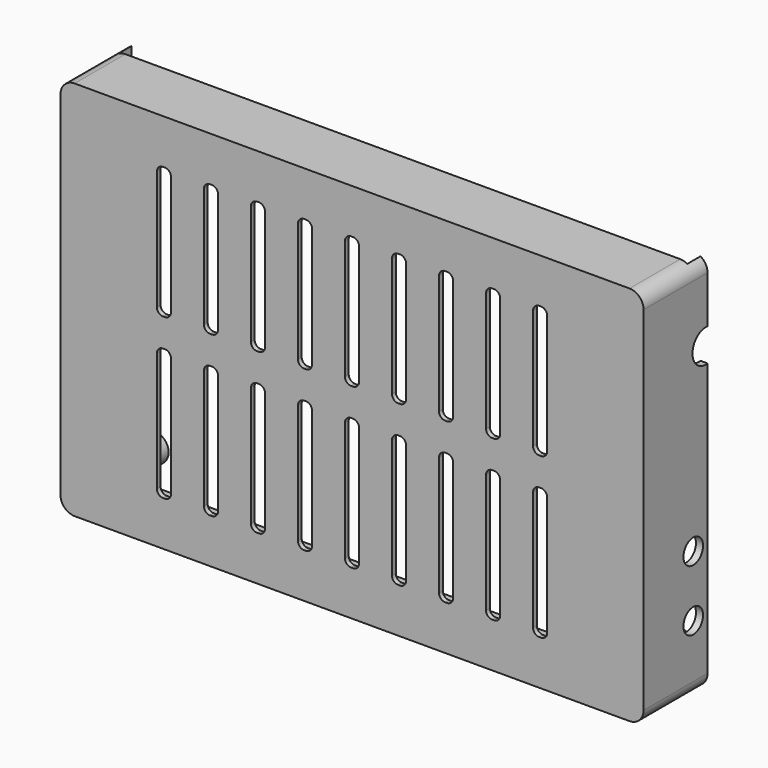
from build123d import *

# Parameters (mm, degrees)
CYLINDER002_R     = 1.5
CYLINDER002_DEPTH = 12
ARRAY001_X_COUNT  = 2
ARRAY001_X_PITCH  = 111
ARRAY001_Z_COUNT  = 2
ARRAY001_Z_PITCH  = 67
BOX003_W          = 10
BOX003_H          = 4
BOX003_DEPTH      = 10
CYLINDER_R        = 3.5
CYLINDER_DEPTH    = 20
BOX006_W          = 3
BOX006_H          = 10
BOX006_DEPTH      = 28
FILLET003_R       = 1.3
ARRAY004_X_COUNT  = 9
ARRAY004_X_PITCH  = 10
ARRAY004_Z_COUNT  = 2
ARRAY004_Z_PITCH  = 34
CYLINDER001_R     = 2.6
CYLINDER001_DEPTH = 20
ARRAY_Z_COUNT     = 2
ARRAY_Z_PITCH     = 13
BOX002_W          = 121
BOX002_H          = 3.5
BOX002_DEPTH      = 90
BOX001_W          = 121
BOX001_H          = 18
BOX001_DEPTH      = 77
FILLET001_R       = 3
BOX_W             = 124
BOX_H             = 17
BOX_DEPTH         = 81
FILLET_R          = 3
BOX004_W          = 9
BOX004_H          = 12
BOX004_DEPTH      = 9
FILLET002_R       = 3
ARRAY003_X_COUNT  = 2
ARRAY003_X_PITCH  = 115
ARRAY003_Z_COUNT  = 2
ARRAY003_Z_PITCH  = 71
CYLINDER003_R     = 3
CYLINDER003_DEPTH = 16
ARRAY002_X_COUNT  = 2
ARRAY002_X_PITCH  = 111
ARRAY002_Z_COUNT  = 2
ARRAY002_Z_PITCH  = 67


with BuildPart() as bolt_hole_array:
    # Cylinder002 → Cylinder002 (new body)
    with BuildSketch(Plane(origin=(6.4, 2, 7.1), x_dir=(1, 0, 0), z_dir=(0, 1, 0))):
        Circle(CYLINDER002_R)
    extrude(amount=CYLINDER002_DEPTH)

    # Array001 X: bolt hole array ×2


with BuildPart() as bolt_hole_array_1:
    add(bolt_hole_array.part)
    with Locations(*[(i * ARRAY001_X_PITCH, 0, 0) for i in range(1, ARRAY001_X_COUNT)]):
        add(bolt_hole_array.part)

    # Array001 Z: bolt hole array ×2


with BuildPart() as bolt_hole_array_2:
    add(bolt_hole_array_1.part)
    with Locations(*[(0, 0, i * ARRAY001_Z_PITCH) for i in range(1, ARRAY001_Z_COUNT)]):
        add(bolt_hole_array_1.part)


with BuildPart() as usb_cut:
    # Box003 → Box003 (new body)
    with BuildSketch(Plane(origin=(-5, 11, 22), x_dir=(1, 0, 0), z_dir=(0, 0, 1))):
        with Locations((5, 2)):
            Rectangle(BOX003_W, BOX003_H)
    extrude(amount=BOX003_DEPTH)


with BuildPart() as ant_hole:
    # Cylinder → Cylinder (new body)
    with BuildSketch(Plane(origin=(-9, 13.5, 66), x_dir=(0, 0, -1), z_dir=(1, 0, 0))):
        Circle(CYLINDER_R)
    extrude(amount=CYLINDER_DEPTH)


with BuildPart() as ant_hole002:
    # Body001 base: copy of ant hole
    add(ant_hole.part)


with BuildPart() as ant_hole002_1:
    # Clone001 placement: moved
    add(ant_hole002.part.moved(Location((0, 0.5, 0))))


with BuildPart() as ant_hole002_2:
    # Body001 placement: moved
    add(ant_hole002_1.part.moved(Location((121, -0.5, -1.5))))


with BuildPart() as ant_hole001:
    # Body base: copy of ant hole
    add(ant_hole.part)


with BuildPart() as ant_hole001_1:
    # Clone placement: moved
    add(ant_hole001.part.moved(Location((0, 0.5, 0))))


with BuildPart() as ant_hole001_2:
    # Body placement: moved
    add(ant_hole001_1.part.moved(Location((0, -0.5, -18))))


with BuildPart() as top_hole_array:
    # Box006 → Box006 (new body)
    with BuildSketch(Plane(origin=(20.5, 0, 0), x_dir=(1, 0, 0), z_dir=(0, 0, 1))):
        with Locations((1.5, 5)):
            Rectangle(BOX006_W, BOX006_H)
    extrude(amount=BOX006_DEPTH)

    # Fillet003
    fillet003_edges = [top_hole_array.edges().sort_by_distance(p)[0] for p in [
        (20.5, 5, 28),
        (20.5, 5, 0),
        (23.5, 5, 28),
        (23.5, 5, 0),
    ]]
    fillet(fillet003_edges, radius=FILLET003_R)


with BuildPart() as top_hole_array_1:
    # Fillet003 placement: moved
    add(top_hole_array.part.moved(Location((0, 0, 9.5))))

    # Array004 X: top hole array ×9


with BuildPart() as top_hole_array_2:
    add(top_hole_array_1.part)
    with Locations(*[(i * ARRAY004_X_PITCH, 0, 0) for i in range(1, ARRAY004_X_COUNT)]):
        add(top_hole_array_1.part)

    # Array004 Z: top hole array ×2


with BuildPart() as top_hole_array_3:
    add(top_hole_array_2.part)
    with Locations(*[(0, 0, i * ARRAY004_Z_PITCH) for i in range(1, ARRAY004_Z_COUNT)]):
        add(top_hole_array_2.part)


with BuildPart() as top_hole_array_4:
    # Array004 placement: moved
    add(top_hole_array_3.part.moved(Location((0, -3, 0))))


with BuildPart() as hole_fusion:
    # Cylinder001 → Cylinder001 (new body)
    with BuildSketch(Plane(origin=(112, 10.2, 14.4), x_dir=(0, 0, -1), z_dir=(1, 0, 0))):
        Circle(CYLINDER001_R)
    extrude(amount=CYLINDER001_DEPTH)

    # Array Z: hole fusion ×2


with BuildPart() as hole_fusion_1:
    add(hole_fusion.part)
    with Locations(*[(0, 0, i * ARRAY_Z_PITCH) for i in range(1, ARRAY_Z_COUNT)]):
        add(hole_fusion.part)

    # Fusion002: union bolt hole array, usb cut, ant hole002, ant hole001, ant hole, top hole array
    add(bolt_hole_array_2.part)
    add(usb_cut.part)
    add(ant_hole002_2.part)
    add(ant_hole001_2.part)
    add(ant_hole.part)
    add(top_hole_array_4.part)


with BuildPart() as hole_fusion_2:
    # Fusion002 placement: moved
    add(hole_fusion_1.part.moved(Location((0, 3, 0))))


with BuildPart() as cube002:
    # Box002 → Box002 (new body)
    with BuildSketch(Plane(origin=(1.5, 13.5, -4), x_dir=(1, 0, 0), z_dir=(0, 0, 1))):
        with Locations((60.5, 1.75)):
            Rectangle(BOX002_W, BOX002_H)
    extrude(amount=BOX002_DEPTH)


with BuildPart() as body_extraction_fusion:
    # Box001 → Box001 (new body)
    with BuildSketch(Plane(origin=(1.5, 1, 2), x_dir=(1, 0, 0), z_dir=(0, 0, 1))):
        with Locations((60.5, 9)):
            Rectangle(BOX001_W, BOX001_H)
    extrude(amount=BOX001_DEPTH)

    # Fillet001
    fillet001_edges = [body_extraction_fusion.edges().sort_by_distance(p)[0] for p in [
        (1.5, 10, 79),
        (1.5, 10, 2),
        (122.5, 10, 79),
        (122.5, 10, 2),
    ]]
    fillet(fillet001_edges, radius=FILLET001_R)

    # Fusion001: union Cube002
    add(cube002.part)


with BuildPart() as body_cut:
    # Box → Box (new body)
    with BuildSketch(Plane.XY):
        with Locations((62, 8.5)):
            Rectangle(BOX_W, BOX_H)
    extrude(amount=BOX_DEPTH)

    # Fillet
    fillet_edges = [body_cut.edges().sort_by_distance(p)[0] for p in [
        (0, 8.5, 81),
        (0, 8.5, 0),
        (124, 8.5, 81),
        (124, 8.5, 0),
    ]]
    fillet(fillet_edges, radius=FILLET_R)

    # Cut: cut body extraction fusion
    add(body_extraction_fusion.part, mode=Mode.SUBTRACT)


with BuildPart() as bolt_stand_array001:
    # Box004 → Box004 (new body)
    with BuildSketch(Plane.XY):
        with Locations((4.5, 6)):
            Rectangle(BOX004_W, BOX004_H)
    extrude(amount=BOX004_DEPTH)

    # Fillet002
    fillet002_edges = [bolt_stand_array001.edges().sort_by_distance(p)[0] for p in [
        (0, 6, 9),
        (0, 6, 0),
        (9, 6, 9),
        (9, 6, 0),
    ]]
    fillet(fillet002_edges, radius=FILLET002_R)

    # Array003 X: bolt stand array001 ×2


with BuildPart() as bolt_stand_array001_1:
    add(bolt_stand_array001.part)
    with Locations(*[(i * ARRAY003_X_PITCH, 0, 0) for i in range(1, ARRAY003_X_COUNT)]):
        add(bolt_stand_array001.part)

    # Array003 Z: bolt stand array001 ×2


with BuildPart() as bolt_stand_array001_2:
    add(bolt_stand_array001_1.part)
    with Locations(*[(0, 0, i * ARRAY003_Z_PITCH) for i in range(1, ARRAY003_Z_COUNT)]):
        add(bolt_stand_array001_1.part)


with BuildPart() as obj1:
    # Cylinder003 → Cylinder003 (new body)
    with BuildSketch(Plane(origin=(6.4, 1, 7.1), x_dir=(1, 0, 0), z_dir=(0, 1, 0))):
        Circle(CYLINDER003_R)
    extrude(amount=CYLINDER003_DEPTH)

    # Array002 X: obj1_2


with BuildPart() as obj1_1:
    add(obj1.part)
    with Locations(*[(i * ARRAY002_X_PITCH, 0, 0) for i in range(1, ARRAY002_X_COUNT)]):
        add(obj1.part)

    # Array002 Z: obj1_2


with BuildPart() as obj1_2:
    add(obj1_1.part)
    with Locations(*[(0, 0, i * ARRAY002_Z_PITCH) for i in range(1, ARRAY002_Z_COUNT)]):
        add(obj1_1.part)

    # Fusion: union bolt stand array001
    add(bolt_stand_array001_2.part)

    # Fusion003: union body cut
    add(body_cut.part)

    # Cut001: cut hole fusion
    add(hole_fusion_2.part, mode=Mode.SUBTRACT)


solid = obj1_2.part
